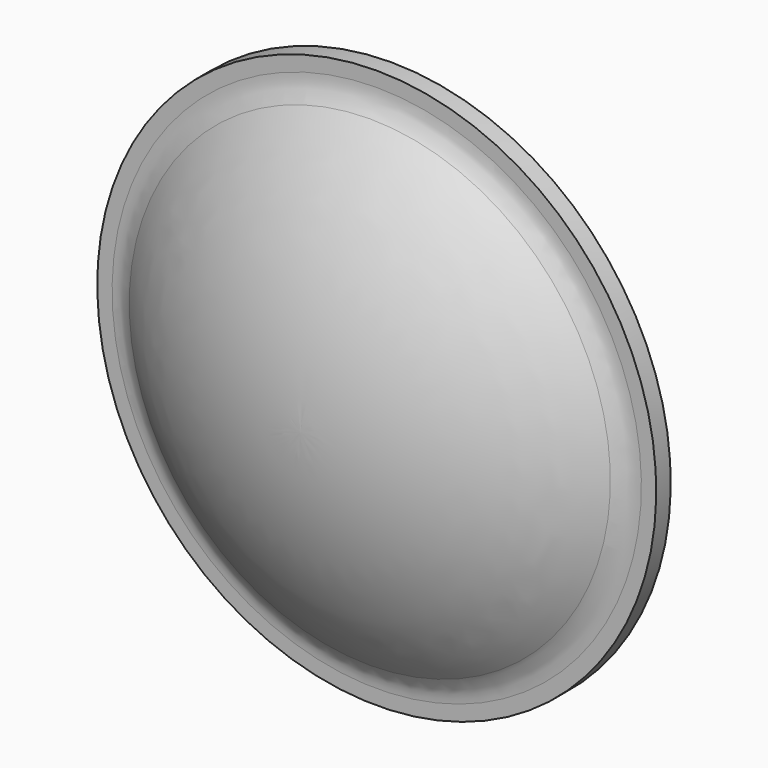
from build123d import *


with BuildPart() as f1:
    # F0 (on Right) → F1 (revolve)
    with BuildSketch(Plane.YZ):
        with BuildLine():
            Line((-7.3, 0), (0.2, 0))
            Line((0.2, 0), (0.2, 18.5))
            Line((0.2, 18.5), (-1, 18.5))
            Line((-1, 18.5), (-1, 17.515993))
            ThreePointArc((-1, 17.515993), (-1.147535, 16.669879), (-1.572727, 15.92363))
            ThreePointArc((-1.572727, 15.92363), (-5.824649, 8.461141), (-7.3, 0))
        make_face()
        with BuildLine():
            Line((-7.3, 0), (0.2, 0))
            Line((0.2, 0), (0.2, 18.5))
            Line((0.2, 18.5), (-1, 18.5))
            Line((-1, 18.5), (-1, 17.515993))
            ThreePointArc((-1, 17.515993), (-1.147535, 16.669879), (-1.572727, 15.92363))
            ThreePointArc((-1.572727, 15.92363), (-5.824649, 8.461141), (-7.3, 0))
        make_face()
    revolve(axis=Axis((0, -3.55, 0), (0, -1, 0)))


solid = f1.part
